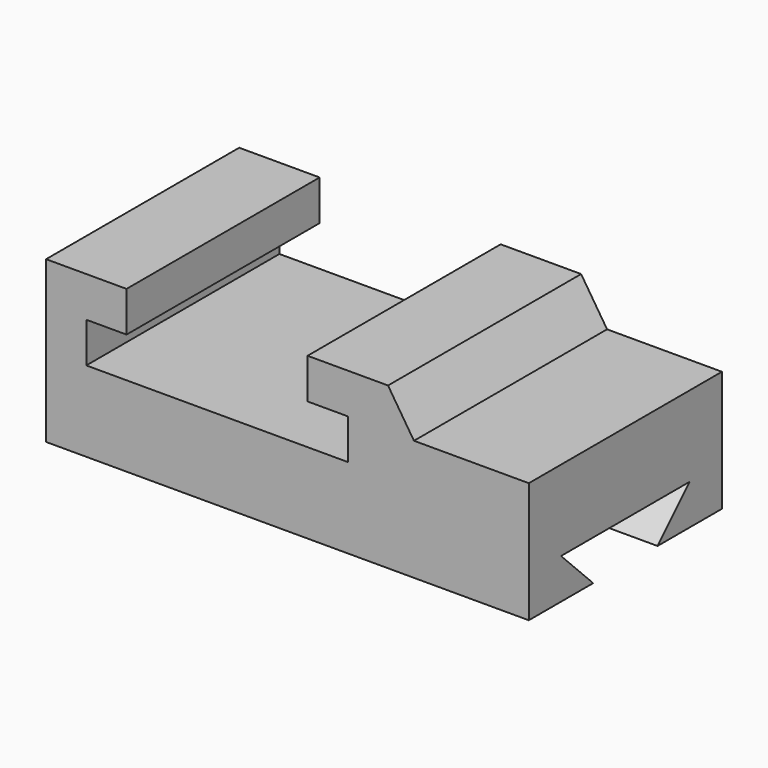
from build123d import *

# Parameters (mm, degrees)
F1_DEPTH = 76.2
F3_DEPTH = 152.4


with BuildPart() as f1:
    # F0 (on Front) → F1 (new body)
    with BuildSketch(Plane.XZ):
        Polygon((0, 50.8), (0, 0), (152.4, 0), (152.4, 38.1), (116.141342, 38.1), (107.95, 50.8), (82.55, 50.8), (82.55, 38.1), (95.25, 38.1), (95.25, 25.4), (82.55, 25.4), (12.7, 25.4), (12.7, 38.1), (25.4, 38.1), (25.4, 50.8), align=None)
    extrude(amount=F1_DEPTH)

    # F2 (on face) → F3 (cut)
    with BuildSketch(Plane.YZ.offset(152.4)):
        Polygon((-12.7, 12.7), (-38.1, 12.7), (-63.5, 12.7), (-50.8, 0), (-25.4, 0), align=None)
    extrude(amount=-F3_DEPTH, mode=Mode.SUBTRACT)


solid = f1.part
